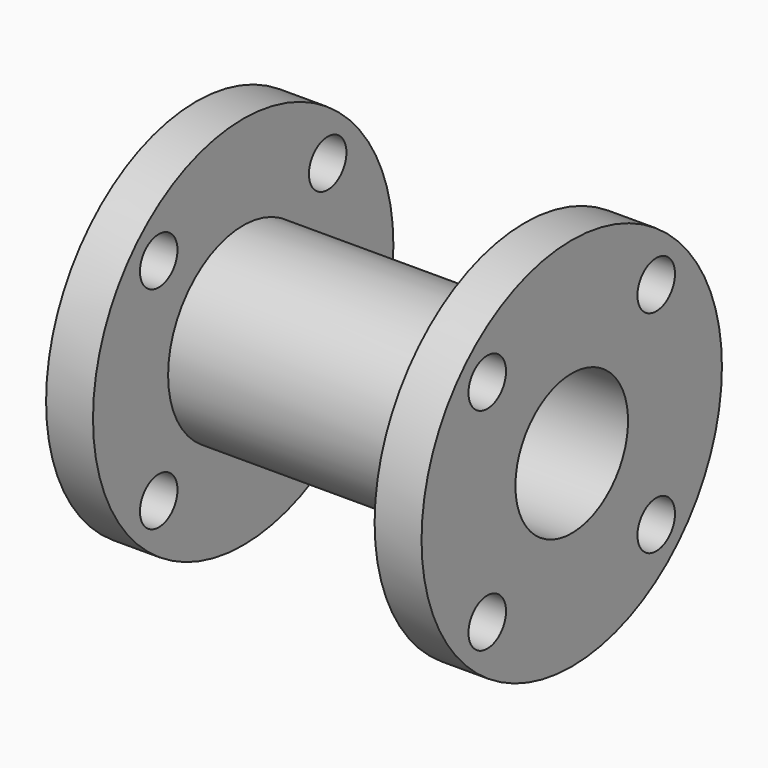
from build123d import *

# Parameters (mm, degrees)
F0_W     = 12.7
F0_H     = 6.35
F0_H_2   = 25.4
F0_W_2   = 76.2
F2_R     = 6.35
F3_DEPTH = 101.6


with BuildPart() as f1:
    # F0 (on Top) → F1 (revolve)
    with BuildSketch(Plane.XY):
        with Locations((6.35, -22.225)):
            Rectangle(F0_W, F0_H)
        with Locations((6.35, -38.1)):
            Rectangle(F0_W, F0_H_2)
        with Locations((50.8, -22.225)):
            Rectangle(F0_W_2, F0_H)
        with Locations((95.25, -22.225)):
            Rectangle(F0_W, F0_H)
        with Locations((95.25, -38.1)):
            Rectangle(F0_W, F0_H_2)
    revolve(axis=Axis((50.8, 0, 0), (1, 0, 0)))

    # F2 (on face) → F3 (cut, through all)
    with BuildSketch(Plane(origin=(0, 0, 0), x_dir=(0, -1, 0), z_dir=(-1, 0, 0))):
        with Locations((-28.575, 28.575)):
            Circle(F2_R)
        with Locations((28.575, 28.575)):
            Circle(F2_R)
        with Locations((-28.575, -28.575)):
            Circle(F2_R)
        with Locations((28.575, -28.575)):
            Circle(F2_R)
    extrude(amount=-F3_DEPTH, mode=Mode.SUBTRACT)


solid = f1.part
